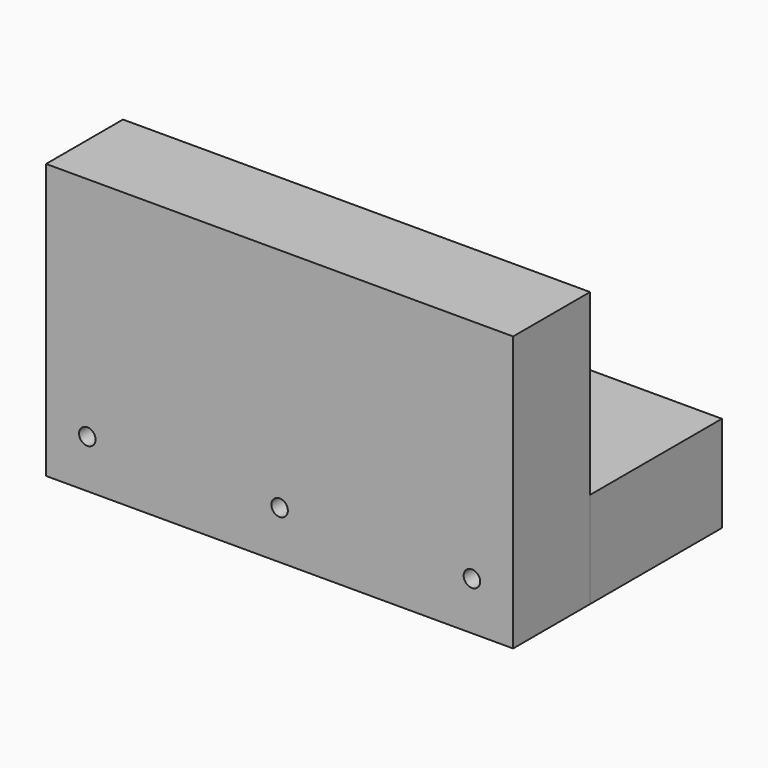
from build123d import *

# Parameters (mm, degrees)
F0_W       = 170
F0_H       = 60
F1_DEPTH   = 35
F2_W       = 170
F2_H       = 100
F3_DEPTH   = 35
F4_R       = 6
F5_DEPTH   = 35.001
F7_D       = 6
F7_DEPTH   = 90
F7_TIP     = 1.8025818571
F7_2_D     = 6
F7_2_DEPTH = 90
F7_2_TIP   = 1.8025818571


with BuildPart() as f1:
    # F0 (on Top) → F1 (new body)
    with BuildSketch(Plane.XY):
        Rectangle(F0_W, F0_H)
    extrude(amount=F1_DEPTH)

    # F4 (on face) → F5 (cut, through all)
    with BuildSketch(Plane.XY.offset(35)):
        with Locations((45, 0)):
            Circle(F4_R)
        with Locations((-45, 0)):
            Circle(F4_R)
    extrude(amount=-F5_DEPTH, mode=Mode.SUBTRACT)

    # F7
    with Locations(Plane.XZ.offset(65)):
        with Locations((-70, 17.5), (0, 17.5), (70, 17.5)):
            Hole(F7_D / 2, depth=F7_DEPTH)
            with Locations((0, 0, -(F7_DEPTH + F7_TIP / 2))):  # 118° drill point
                Cone(0, F7_D / 2, F7_TIP, mode=Mode.SUBTRACT)


with BuildPart() as f3:
    # F2 (on face) → F3 (new body)
    with BuildSketch(Plane.XZ.offset(30)):
        with Locations((0, 50)):
            Rectangle(F2_W, F2_H)
    extrude(amount=F3_DEPTH)

    # F7#2
    with Locations(Plane.XZ.offset(65)):
        with Locations((-70, 17.5), (0, 17.5), (70, 17.5)):
            Hole(F7_2_D / 2, depth=F7_2_DEPTH)
            with Locations((0, 0, -(F7_2_DEPTH + F7_2_TIP / 2))):  # 118° drill point
                Cone(0, F7_2_D / 2, F7_2_TIP, mode=Mode.SUBTRACT)


solid = Compound([f1.part, f3.part])
